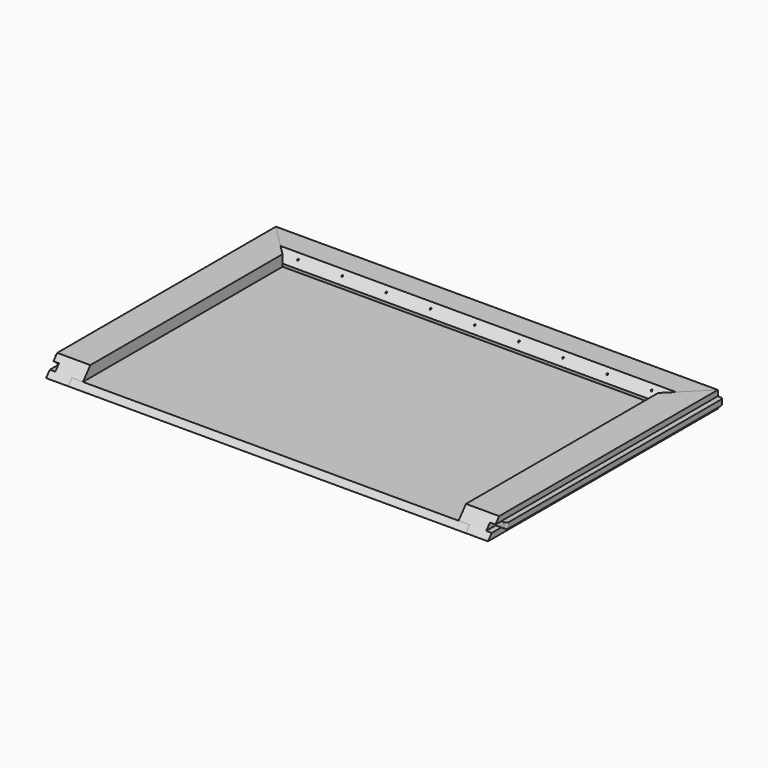
from build123d import *

# Parameters (mm, degrees)
F1_DEPTH          = 254
F3_DEPTH          = 330.2
F5_DEPTH          = 19.051
F7_DEPTH          = 19.051
F9_DEPTH          = 19.051
F11_DEPTH         = 508.001
F13_W             = 457.2
F13_H             = 304.8
F14_DEPTH         = 6.35
F16_DEPTH         = 482.601
F18_D             = 1.5875
F18_DEPTH         = 15.875
F18_TIP           = 0.4769331164
F18_2_D           = 1.5875
F18_2_DEPTH       = 15.875
F18_2_TIP         = 0.4769331164
F19_D             = 1.5875
F19_DEPTH         = 15.875
F19_TIP           = 0.4769331164
F19_2_D           = 1.5875
F19_2_DEPTH       = 15.875
F19_2_TIP         = 0.4769331164
F20_D             = 1.5875
F20_DEPTH         = 15.875
F20_TIP           = 0.4769331164
F20_2_D           = 1.5875
F20_2_DEPTH       = 15.875
F20_2_TIP         = 0.4769331164
F21_D             = 2.8702
F21_DEPTH         = 6.35
F21_CSINK_D       = 4.953
F21_CSINK_ANGLE   = 82
F21_TIP           = 0.8622950744
F21_2_D           = 2.8702
F21_2_DEPTH       = 6.35
F21_2_CSINK_D     = 4.953
F21_2_CSINK_ANGLE = 82
F21_2_TIP         = 0.8622950744
F21_3_D           = 2.8702
F21_3_DEPTH       = 6.35
F21_3_CSINK_D     = 4.953
F21_3_CSINK_ANGLE = 82
F21_3_TIP         = 0.8622950744
F21_4_D           = 2.8702
F21_4_DEPTH       = 6.35
F21_4_CSINK_D     = 4.953
F21_4_CSINK_ANGLE = 82
F21_4_TIP         = 0.8622950744
F23_DEPTH         = 6.35
F24_R             = 3.175


with BuildPart() as f1:
    # F0 (on Right) → F1 (new body, symmetric)
    with BuildSketch(Plane.YZ):
        Polygon((-25.4, 0), (0, 0), (0, 19.05), (-26.7485470305, 19.05), (-38.1, 9.525), (-38.1, 6.35), (-25.4, 6.35), align=None)
    extrude(amount=F1_DEPTH, both=True)

    # F4 (on face) → F5 (cut, through all)
    with BuildSketch(Plane.XY.offset(19.05)):
        Polygon((254, -38.1), (254, 0), (215.9, -38.1), align=None)
    extrude(amount=-F5_DEPTH, mode=Mode.SUBTRACT)

    # F6 (on face) → F7 (cut, through all)
    with BuildSketch(Plane.XY.offset(19.05)):
        Polygon((-254, 0), (-254, -38.1), (-215.9, -38.1), align=None)
    extrude(amount=-F7_DEPTH, mode=Mode.SUBTRACT)

    # F20
    with Locations(Plane(origin=(0, 0, 0), x_dir=(1, 0, 0), z_dir=(0, 0, -1))):
        with Locations((-203.2, 31.75), (-152.4, 31.75), (-101.6, 31.75), (-50.8, 31.75), (0, 31.75), (50.8, 31.75), (101.6, 31.75), (152.4, 31.75), (203.2, 31.75)):
            Hole(F20_D / 2, depth=F20_DEPTH)
            with Locations((0, 0, -(F20_DEPTH + F20_TIP / 2))):  # 118° drill point
                Cone(0, F20_D / 2, F20_TIP, mode=Mode.SUBTRACT)

    # F21
    with Locations(Plane(origin=(0, 0, 0), x_dir=(1, 0, 0), z_dir=(0, 0, -1))):
        with Locations((-222.25, 260.35), (-222.25, 209.55), (-222.25, 158.75), (-222.25, 107.95), (-222.25, 57.15), (-203.2, 31.75), (-152.4, 31.75), (-101.6, 31.75), (-50.8, 31.75), (0, 31.75), (50.8, 31.75), (101.6, 31.75), (152.4, 31.75), (203.2, 31.75), (222.25, 57.15), (222.25, 107.95), (222.25, 158.75), (222.25, 209.55), (222.25, 260.35), (-222.25, 311.15), (222.25, 311.15)):
            CounterSinkHole(F21_D / 2, F21_CSINK_D / 2, depth=F21_DEPTH, counter_sink_angle=F21_CSINK_ANGLE)
            with Locations((0, 0, -(F21_DEPTH + F21_TIP / 2))):  # 118° drill point
                Cone(0, F21_D / 2, F21_TIP, mode=Mode.SUBTRACT)


with BuildPart() as f3:
    # F2 (on Front) → F3 (new body)
    with BuildSketch(Plane.XZ):
        Polygon((228.6, 0), (254, 0), (254, 6.35), (247.65, 6.35), (247.65, 12.7), (254, 12.7), (254, 19.05), (215.9, 19.05), (215.9, 6.35), (228.6, 6.35), align=None)
    extrude(amount=F3_DEPTH)

    # F8 (on face) → F9 (cut, through all)
    with BuildSketch(Plane.XY.offset(19.05)):
        Polygon((215.9, -38.1), (254, 0), (215.9, 0), align=None)
    extrude(amount=-F9_DEPTH, mode=Mode.SUBTRACT)

    # F10 (on face) → F11 (cut, through all)
    with BuildSketch(Plane.YZ.offset(254)):
        Polygon((-314.2151520261, 19.05), (-330.2, 19.05), (-330.2, 0), align=None)
    extrude(amount=-F11_DEPTH, mode=Mode.SUBTRACT)


with BuildPart() as f12_1:
    # F12: instance of F3
    add(f3.part.mirror(Plane.YZ))

    # F19
    with Locations(Plane(origin=(0, 0, 0), x_dir=(1, 0, 0), z_dir=(0, 0, -1))):
        with Locations((-222.25, 260.35), (-222.25, 209.55), (-222.25, 158.75), (-222.25, 57.15), (-222.25, 107.95), (-222.25, 311.15)):
            Hole(F19_D / 2, depth=F19_DEPTH)
            with Locations((0, 0, -(F19_DEPTH + F19_TIP / 2))):  # 118° drill point
                Cone(0, F19_D / 2, F19_TIP, mode=Mode.SUBTRACT)

    # F21#3
    with Locations(Plane(origin=(0, 0, 0), x_dir=(1, 0, 0), z_dir=(0, 0, -1))):
        with Locations((-222.25, 260.35), (-222.25, 209.55), (-222.25, 158.75), (-222.25, 107.95), (-222.25, 57.15), (-203.2, 31.75), (-152.4, 31.75), (-101.6, 31.75), (-50.8, 31.75), (0, 31.75), (50.8, 31.75), (101.6, 31.75), (152.4, 31.75), (203.2, 31.75), (222.25, 57.15), (222.25, 107.95), (222.25, 158.75), (222.25, 209.55), (222.25, 260.35), (-222.25, 311.15), (222.25, 311.15)):
            CounterSinkHole(F21_3_D / 2, F21_3_CSINK_D / 2, depth=F21_3_DEPTH, counter_sink_angle=F21_3_CSINK_ANGLE)
            with Locations((0, 0, -(F21_3_DEPTH + F21_3_TIP / 2))):  # 118° drill point
                Cone(0, F21_3_D / 2, F21_3_TIP, mode=Mode.SUBTRACT)


with BuildPart() as f14:
    # F13 (on face) → F14 (new body)
    with BuildSketch(Plane(origin=(0, 0, 0), x_dir=(1, 0, 0), z_dir=(0, 0, -1))):
        with Locations((0, 177.8)):
            Rectangle(F13_W, F13_H)
    extrude(amount=-F14_DEPTH)

    # F15 (on face) → F16 (cut, through all)
    with BuildSketch(Plane.YZ.offset(228.6)):
        Polygon((-330.2, 6.35), (-330.2, 0), (-324.871717342, 6.35), align=None)
    extrude(amount=-F16_DEPTH, mode=Mode.SUBTRACT)

    # F18#2
    with Locations(Plane(origin=(0, 0, 0), x_dir=(1, 0, 0), z_dir=(0, 0, -1))):
        with Locations((222.25, 260.35), (222.25, 209.55), (222.25, 158.75), (222.25, 107.95), (222.25, 57.15), (222.25, 311.15)):
            Hole(F18_2_D / 2, depth=F18_2_DEPTH)
            with Locations((0, 0, -(F18_2_DEPTH + F18_2_TIP / 2))):  # 118° drill point
                Cone(0, F18_2_D / 2, F18_2_TIP, mode=Mode.SUBTRACT)

    # F19#2
    with Locations(Plane(origin=(0, 0, 0), x_dir=(1, 0, 0), z_dir=(0, 0, -1))):
        with Locations((-222.25, 260.35), (-222.25, 209.55), (-222.25, 158.75), (-222.25, 57.15), (-222.25, 107.95), (-222.25, 311.15)):
            Hole(F19_2_D / 2, depth=F19_2_DEPTH)
            with Locations((0, 0, -(F19_2_DEPTH + F19_2_TIP / 2))):  # 118° drill point
                Cone(0, F19_2_D / 2, F19_2_TIP, mode=Mode.SUBTRACT)

    # F20#2
    with Locations(Plane(origin=(0, 0, 0), x_dir=(1, 0, 0), z_dir=(0, 0, -1))):
        with Locations((-203.2, 31.75), (-152.4, 31.75), (-101.6, 31.75), (-50.8, 31.75), (0, 31.75), (50.8, 31.75), (101.6, 31.75), (152.4, 31.75), (203.2, 31.75)):
            Hole(F20_2_D / 2, depth=F20_2_DEPTH)
            with Locations((0, 0, -(F20_2_DEPTH + F20_2_TIP / 2))):  # 118° drill point
                Cone(0, F20_2_D / 2, F20_2_TIP, mode=Mode.SUBTRACT)

    # F21#4
    with Locations(Plane(origin=(0, 0, 0), x_dir=(1, 0, 0), z_dir=(0, 0, -1))):
        with Locations((-222.25, 260.35), (-222.25, 209.55), (-222.25, 158.75), (-222.25, 107.95), (-222.25, 57.15), (-203.2, 31.75), (-152.4, 31.75), (-101.6, 31.75), (-50.8, 31.75), (0, 31.75), (50.8, 31.75), (101.6, 31.75), (152.4, 31.75), (203.2, 31.75), (222.25, 57.15), (222.25, 107.95), (222.25, 158.75), (222.25, 209.55), (222.25, 260.35), (-222.25, 311.15), (222.25, 311.15)):
            CounterSinkHole(F21_4_D / 2, F21_4_CSINK_D / 2, depth=F21_4_DEPTH, counter_sink_angle=F21_4_CSINK_ANGLE)
            with Locations((0, 0, -(F21_4_DEPTH + F21_4_TIP / 2))):  # 118° drill point
                Cone(0, F21_4_D / 2, F21_4_TIP, mode=Mode.SUBTRACT)


with BuildPart() as f3_1:
    add(f3.part)

    # F18
    with Locations(Plane(origin=(0, 0, 0), x_dir=(1, 0, 0), z_dir=(0, 0, -1))):
        with Locations((222.25, 260.35), (222.25, 209.55), (222.25, 158.75), (222.25, 107.95), (222.25, 57.15), (222.25, 311.15)):
            Hole(F18_D / 2, depth=F18_DEPTH)
            with Locations((0, 0, -(F18_DEPTH + F18_TIP / 2))):  # 118° drill point
                Cone(0, F18_D / 2, F18_TIP, mode=Mode.SUBTRACT)

    # F21#2
    with Locations(Plane(origin=(0, 0, 0), x_dir=(1, 0, 0), z_dir=(0, 0, -1))):
        with Locations((-222.25, 260.35), (-222.25, 209.55), (-222.25, 158.75), (-222.25, 107.95), (-222.25, 57.15), (-203.2, 31.75), (-152.4, 31.75), (-101.6, 31.75), (-50.8, 31.75), (0, 31.75), (50.8, 31.75), (101.6, 31.75), (152.4, 31.75), (203.2, 31.75), (222.25, 57.15), (222.25, 107.95), (222.25, 158.75), (222.25, 209.55), (222.25, 260.35), (-222.25, 311.15), (222.25, 311.15)):
            CounterSinkHole(F21_2_D / 2, F21_2_CSINK_D / 2, depth=F21_2_DEPTH, counter_sink_angle=F21_2_CSINK_ANGLE)
            with Locations((0, 0, -(F21_2_DEPTH + F21_2_TIP / 2))):  # 118° drill point
                Cone(0, F21_2_D / 2, F21_2_TIP, mode=Mode.SUBTRACT)


with BuildPart() as f23:
    # F22 (on face) → F23 (new body)
    with BuildSketch(Plane.XY.offset(6.35)):
        Polygon((247.65, -6.35), (247.65, -311.15), (260.35, -311.15), (260.35, -6.35), (260.35, 0), (254, 0), align=None)
    extrude(amount=F23_DEPTH)

    # F24
    f24_edges = [f23.edges().sort_by_distance(p)[0] for p in [
        (260.35, -311.15, 9.525),
        (260.35, 0, 9.525),
    ]]
    fillet(f24_edges, radius=F24_R)


with BuildPart() as f25_1:
    # F25: instance of F23
    add(f23.part.mirror(Plane.YZ))


solid = Compound([f1.part, f12_1.part, f14.part, f3_1.part, f23.part, f25_1.part])
